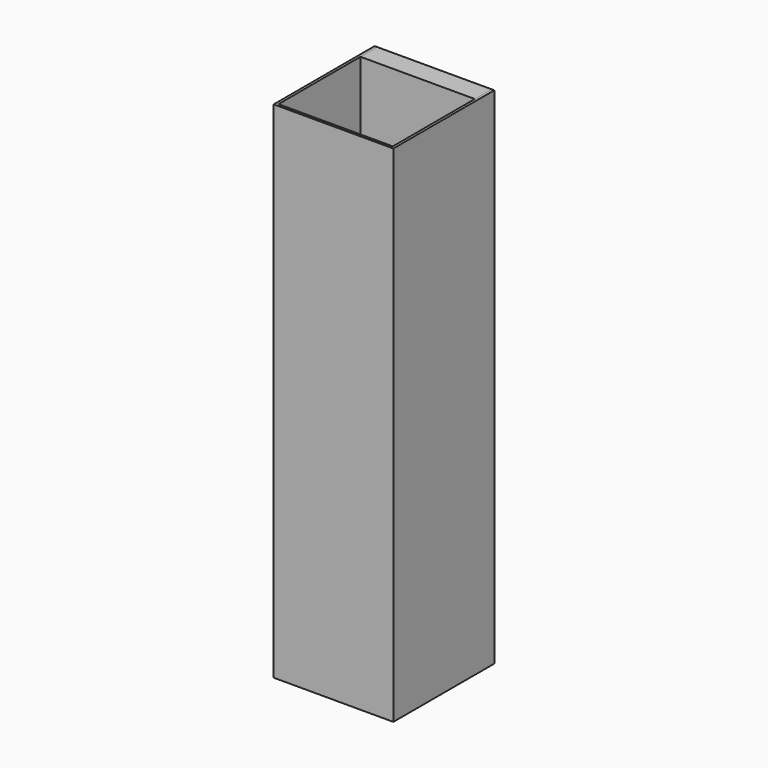
from build123d import *

# Parameters (mm, degrees)
F0_W     = 138.1252
F0_H     = 609.6
F1_DEPTH = 25.4
F3_DEPTH = 609.6


with BuildPart() as f1:
    # F0 (on Front) → F1 (new body)
    with BuildSketch(Plane.XZ):
        with Locations((69.0626, 304.8)):
            Rectangle(F0_W, F0_H)
    extrude(amount=F1_DEPTH)


with BuildPart() as f3:
    # F2 (on face) → F3 (new body)
    with BuildSketch(Plane.XY.offset(609.6)):
        Polygon((0, -149.225), (0, 0), (-3.175, 0), (-3.175, -152.4), (141.3002, -152.4), (141.3002, 0), (138.1252, 0), (138.1252, -149.225), align=None)
    extrude(amount=-F3_DEPTH)


solid = Compound([f1.part, f3.part])
